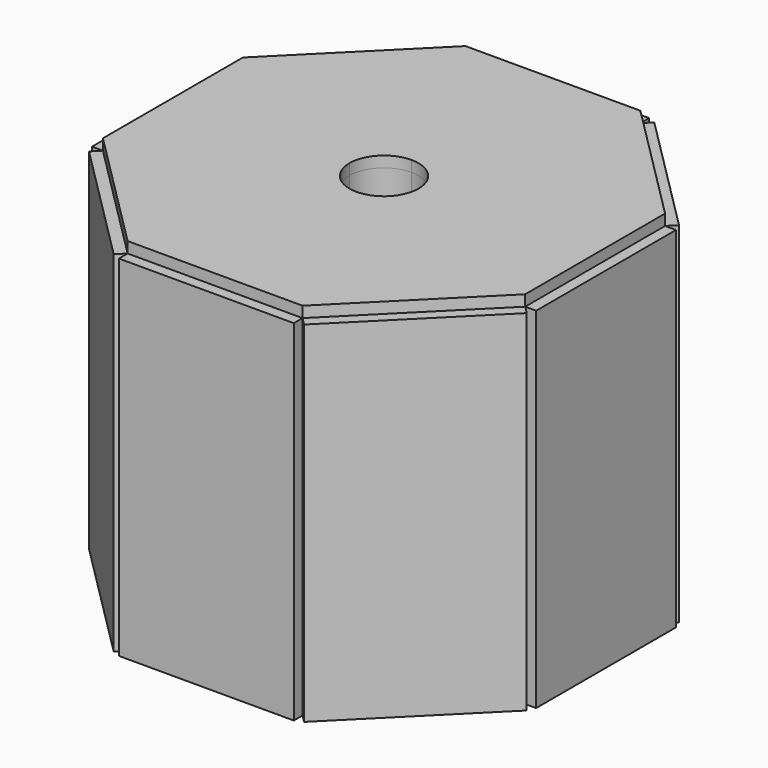
from build123d import *

# Parameters (mm, degrees)
F1_DEPTH = 101.6
F2_DEPTH = 3.175
F3_COUNT = 8
F4_DEPTH = 3.175


with BuildPart() as f1:
    # F0 (on Top) → F1 (new body)
    with BuildSketch(Plane.XY):
        with BuildLine():
            Line((-61.3210244843, 86.7210244843), (-61.3210244843, 61.3210244843))
            Line((-61.3210244843, 61.3210244843), (-10.0228345962, 61.3210244843))
            ThreePointArc((-10.0228345962, 61.3210244843), (-7.0872143097, 68.408238794), (0, 71.3438590805))
            Line((0, 71.3438590805), (0, 122.6420489686))
            Line((0, 122.6420489686), (-25.4, 122.6420489686))
            Line((-25.4, 122.6420489686), (-61.3210244843, 86.7210244843))
        make_face()
        with BuildLine():
            ThreePointArc((0, 71.3438590805), (7.0872143097, 68.408238794), (10.0228345962, 61.3210244843))
            Line((10.0228345962, 61.3210244843), (61.3210244843, 61.3210244843))
            Line((61.3210244843, 61.3210244843), (61.3210244843, 86.7210244843))
            Line((61.3210244843, 86.7210244843), (25.4, 122.6420489686))
            Line((25.4, 122.6420489686), (0, 122.6420489686))
            Line((0, 122.6420489686), (0, 71.3438590805))
        make_face()
        with BuildLine():
            Line((0, 51.298189888), (0, 0))
            Line((0, 0), (25.4, 0))
            Line((25.4, 0), (61.3210244843, 35.9210244843))
            Line((61.3210244843, 35.9210244843), (61.3210244843, 61.3210244843))
            Line((61.3210244843, 61.3210244843), (10.0228345962, 61.3210244843))
            ThreePointArc((10.0228345962, 61.3210244843), (7.0872143097, 54.2338101746), (0, 51.298189888))
        make_face()
        with BuildLine():
            Line((-61.3210244843, 35.9210244843), (-25.4, 0))
            Line((-25.4, 0), (0, 0))
            Line((0, 0), (0, 51.298189888))
            ThreePointArc((0, 51.298189888), (-7.0872143097, 54.2338101746), (-10.0228345962, 61.3210244843))
            Line((-10.0228345962, 61.3210244843), (-61.3210244843, 61.3210244843))
            Line((-61.3210244843, 61.3210244843), (-61.3210244843, 35.9210244843))
        make_face()
    extrude(amount=F1_DEPTH)


with BuildPart() as f2:
    # F2 (new): a face of the model
    f2_faces = [f1.part.faces().sort_by_distance(p)[0] for p in [
        (43.3605122421, 104.6815367264, 50.8),
    ]]
    extrude(f2_faces, amount=F2_DEPTH)


with BuildPart() as f3_1:
    # F3: instance of F2
    add(f2.part.rotate(Axis((0, 61.3210244843, 0), (0, 0, 1)), 1 * 360 / F3_COUNT))


with BuildPart() as f3_2:
    # F3: instance of F2
    add(f2.part.rotate(Axis((0, 61.3210244843, 0), (0, 0, 1)), 2 * 360 / F3_COUNT))


with BuildPart() as f3_3:
    # F3: instance of F2
    add(f2.part.rotate(Axis((0, 61.3210244843, 0), (0, 0, 1)), 3 * 360 / F3_COUNT))


with BuildPart() as f3_4:
    # F3: instance of F2
    add(f2.part.rotate(Axis((0, 61.3210244843, 0), (0, 0, 1)), 4 * 360 / F3_COUNT))


with BuildPart() as f3_5:
    # F3: instance of F2
    add(f2.part.rotate(Axis((0, 61.3210244843, 0), (0, 0, 1)), 5 * 360 / F3_COUNT))


with BuildPart() as f3_6:
    # F3: instance of F2
    add(f2.part.rotate(Axis((0, 61.3210244843, 0), (0, 0, 1)), 6 * 360 / F3_COUNT))


with BuildPart() as f3_7:
    # F3: instance of F2
    add(f2.part.rotate(Axis((0, 61.3210244843, 0), (0, 0, 1)), 7 * 360 / F3_COUNT))


with BuildPart() as f4:
    # F4 (new): a face of the model
    f4_faces = [f1.part.faces().sort_by_distance(p)[0] for p in [
        (-59.5866039946, 61.3210244843, 101.6),
    ]]
    extrude(f4_faces, amount=F4_DEPTH)


solid = Compound([f1.part, f2.part, f3_1.part, f3_2.part, f3_3.part, f3_4.part, f3_5.part, f3_6.part, f3_7.part, f4.part])
